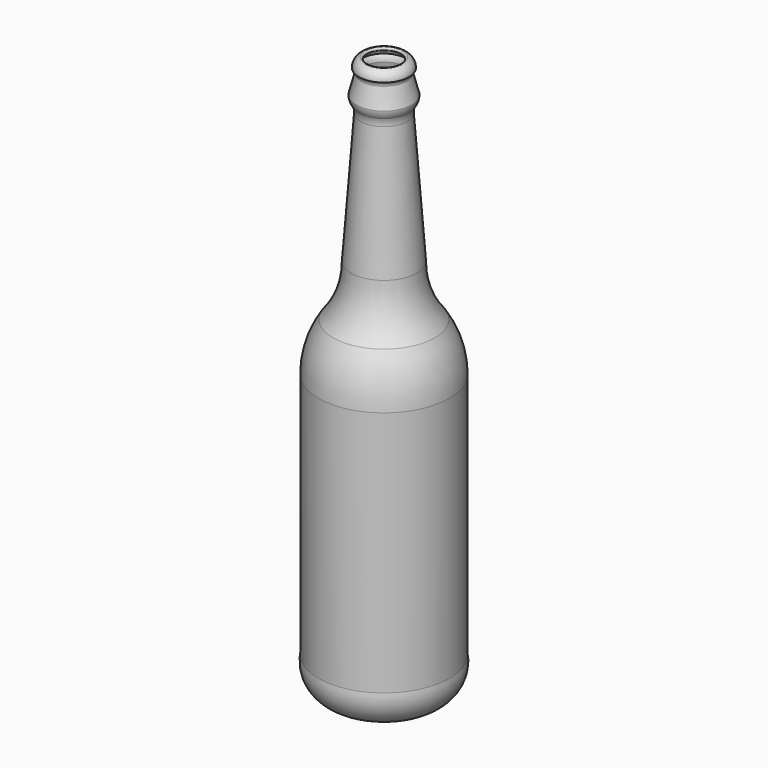
from build123d import *


with BuildPart() as f1:
    # F0 (on Front) → F1 (revolve)
    with BuildSketch(Plane.XZ):
        with BuildLine():
            Line((-24.96149, 0), (0, 0))
            Line((0, 0), (0, 1.633819))
            Line((0, 1.633819), (-24.509667, 1.633819))
            ThreePointArc((-24.509667, 1.633819), (-30.126288, 8.106544), (-31.085551, 16.622553))
            Line((-31.085551, 16.622553), (-31.085551, 140.151799))
            ThreePointArc((-31.085551, 140.151799), (-29.294346, 152.31366), (-24.072849, 163.442687))
            ThreePointArc((-24.072849, 163.442687), (-17.117594, 175.899126), (-14.816333, 189.978993))
            Line((-14.816333, 189.978993), (-10.05412, 255.129589))
            ThreePointArc((-10.05412, 255.129589), (-10.181419, 257.640126), (-10.919289, 260.043155))
            ThreePointArc((-10.919289, 260.043155), (-11.86173, 261.465397), (-12.263672, 263.123531))
            Line((-12.263672, 263.123531), (-9.776786, 272.644076))
            ThreePointArc((-9.776786, 272.644076), (-10.031754, 274.295295), (-10.857139, 275.747972))
            ThreePointArc((-10.857139, 275.747972), (-10.168535, 277.294105), (-8.769274, 278.246352))
            ThreePointArc((-8.769274, 278.246352), (-8.348742, 279.246622), (-9.283863, 279.797018))
            ThreePointArc((-9.283863, 279.797018), (-11.688933, 277.990548), (-12.517293, 275.09892))
            ThreePointArc((-12.517293, 275.09892), (-11.717753, 274.099356), (-11.409819, 272.856951))
            Line((-11.409819, 272.856951), (-13.906152, 263.30024))
            ThreePointArc((-13.906152, 263.30024), (-13.471319, 261.085525), (-12.312618, 259.148657))
            ThreePointArc((-12.312618, 259.148657), (-11.770018, 257.235465), (-11.683592, 255.248696))
            Line((-11.683592, 255.248696), (-16.450895, 190.028459))
            ThreePointArc((-16.450895, 190.028459), (-18.661912, 176.432488), (-25.389917, 164.412796))
            ThreePointArc((-25.389917, 164.412796), (-30.847003, 152.823784), (-32.71937, 140.151799))
            Line((-32.71937, 140.151799), (-32.71937, 16.773304))
            ThreePointArc((-32.71937, 16.773304), (-31.49187, 7.160325), (-24.96149, 0))
        make_face()
    revolve(axis=Axis((0, 0, 156.608338), (0, 0, 1)))


solid = f1.part
